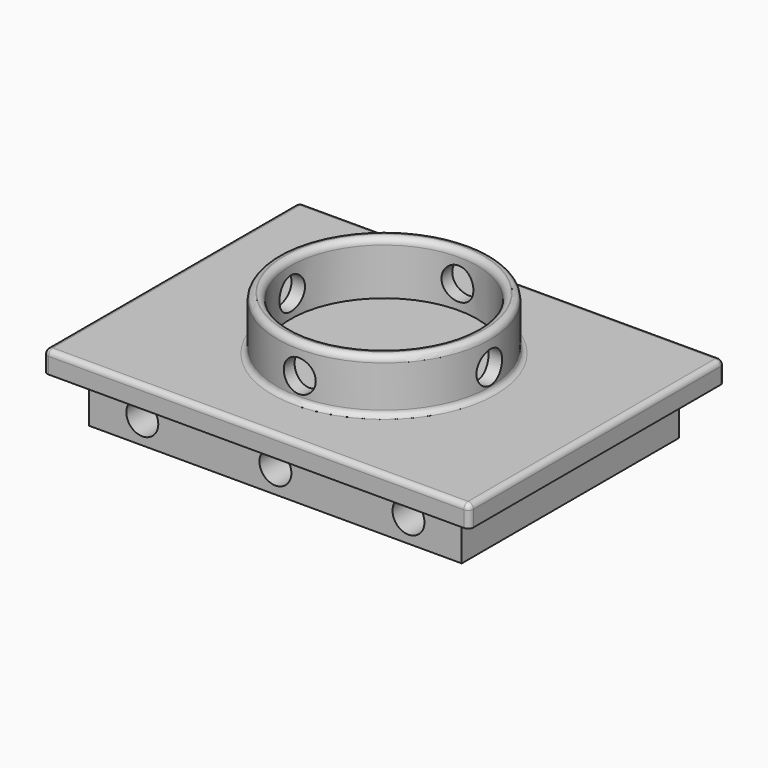
from build123d import *

# Parameters (mm, degrees)
F0_W      = 400
F0_H      = 300
F1_DEPTH  = 20
F2_R      = 100
F2_R_2    = 87.5
F3_DEPTH  = 50
F4_R      = 6
F6_R      = 15
F7_DEPTH  = 200
F9_R      = 15
F10_DEPTH = 200
F11_W     = 350
F11_H     = 255
F12_DEPTH = 45
F13_R     = 15
F14_DEPTH = 255
F15_DEPTH = 256
F16_R     = 5


with BuildPart() as f1:
    # F0 (on Top) → F1 (new body)
    with BuildSketch(Plane.XY):
        Rectangle(F0_W, F0_H)
    extrude(amount=F1_DEPTH)

    # F2 (on face) → F3 (join)
    with BuildSketch(Plane.XY.offset(20)):
        Circle(F2_R)
        Circle(F2_R_2, mode=Mode.SUBTRACT)
    extrude(amount=F3_DEPTH)

    # F4
    f4_edges = [f1.edges().sort_by_distance(p)[0] for p in [
        (-100, 0, 70),
        (-87.5, 0, 70),
    ]]
    fillet(f4_edges, radius=F4_R)

    # F6 (on offset) → F7 (cut)
    with BuildSketch(Plane.XZ.offset(100)):
        with Locations((0, 42)):
            Circle(F6_R)
    extrude(amount=-F7_DEPTH, mode=Mode.SUBTRACT)

    # F9 (on offset) → F10 (cut)
    with BuildSketch(Plane.YZ.offset(-100)):
        with Locations((0, 41)):
            Circle(F9_R)
    extrude(amount=F10_DEPTH, mode=Mode.SUBTRACT)

    # F11 (on face) → F12 (join)
    with BuildSketch(Plane(origin=(0, 0, 0), x_dir=(1, 0, 0), z_dir=(0, 0, -1))):
        Rectangle(F11_W, F11_H)
    extrude(amount=F12_DEPTH)

    # F13 (on face) → F14 (cut)
    with BuildSketch(Plane.XZ.offset(127.5)):
        with Locations((-125, -22.5)):
            Circle(F13_R)
    extrude(amount=-F14_DEPTH, mode=Mode.SUBTRACT)

    # F13 (on face) → F15 (cut)
    with BuildSketch(Plane.XZ.offset(127.5)):
        with Locations((-125, -22.5)):
            Circle(F13_R)
        with Locations((125, -22.5)):
            Circle(F13_R)
        with Locations((0, -22.5)):
            Circle(F13_R)
    extrude(amount=-F15_DEPTH, mode=Mode.SUBTRACT)

    # F16
    f16_edges = [f1.edges().sort_by_distance(p)[0] for p in [
        (0, -150, 20),
        (-200, 0, 20),
        (200, 0, 20),
        (0, 150, 20),
        (-100, 0, 20),
        (-200, -150, 10),
        (200, -150, 10),
        (200, 150, 10),
        (-200, 150, 10),
    ]]
    fillet(f16_edges, radius=F16_R)


solid = f1.part
